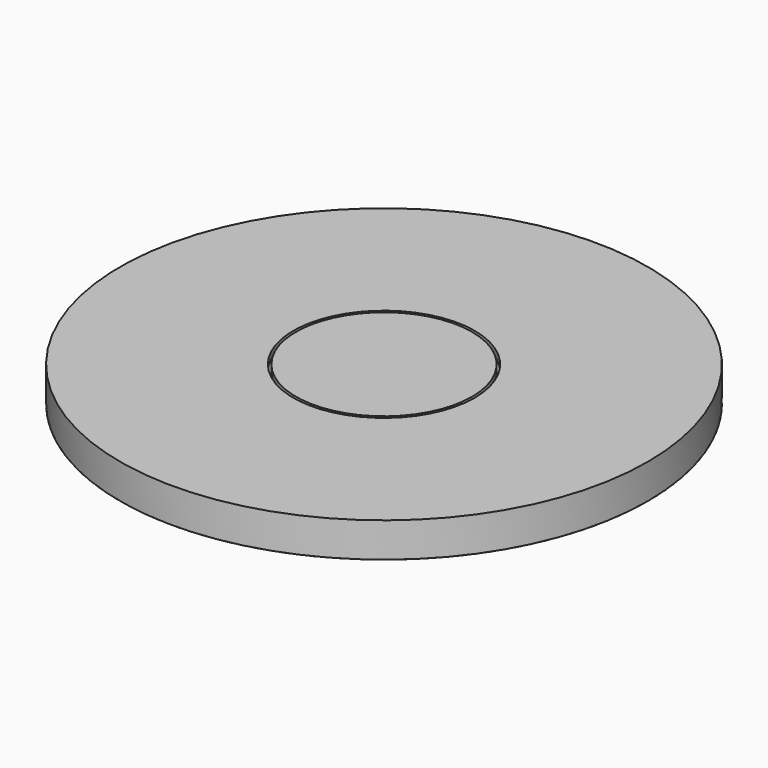
from build123d import *

# Parameters (mm, degrees)
F0_R     = 19.05
F1_DEPTH = 2.5
F2_R     = 6.55
F2_R_2   = 6.35
F3_DEPTH = 0.5


with BuildPart() as f1:
    # F0 (on Top) → F1 (new body)
    with BuildSketch(Plane.XY):
        Circle(F0_R)
    extrude(amount=F1_DEPTH)

    # F2 (on face) → F3 (cut)
    with BuildSketch(Plane.XY.offset(2.5)):
        Circle(F2_R)
        Circle(F2_R_2, mode=Mode.SUBTRACT)
    extrude(amount=-F3_DEPTH, mode=Mode.SUBTRACT)


with BuildPart() as f5:
    # F4 (on Front) → F5 (revolve)
    with BuildSketch(Plane.XZ):
        with BuildLine():
            Line((0, 0), (-19.05, 0))
            ThreePointArc((-19.05, 0), (-18.124981, -0.135675), (-17.197082, -0.25))
            Line((-17.197082, -0.25), (0, -0.25))
            Line((0, -0.25), (0, 0))
        make_face()
    revolve(axis=Axis((0, 0, -0.125), (0, 0, -1)))


solid = Compound([f1.part, f5.part])
